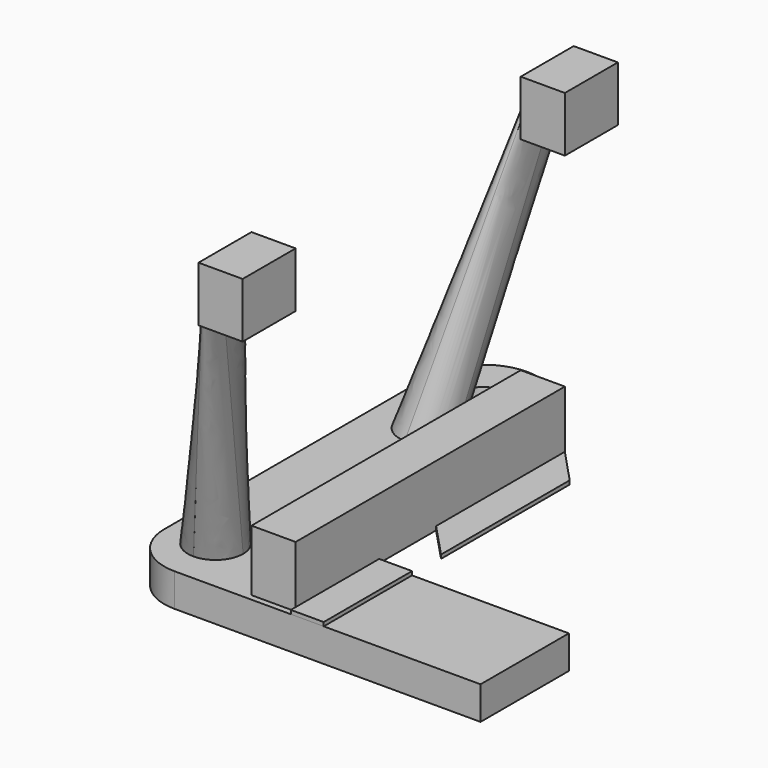
from build123d import *

# Parameters (mm, degrees)
SKETCH_W     = 4
SKETCH_H     = 30.488262
PAD_DEPTH    = 5.542531
SKETCH077_R  = 1.6
PAD048_DEPTH = 3
SKETCH078_W  = 4
SKETCH078_H  = 5
PAD049_DEPTH = 6
SKETCH079_W  = 4
SKETCH079_H  = 5
PAD050_DEPTH = 6
SKETCH081_R  = 2.5
SKETCH080_R  = 2.5
SKETCH083_R  = 2.5
SKETCH082_R  = 2.5
SKETCH089_W  = 2.978887
SKETCH089_H  = 9.99982
PAD052_DEPTH = 0.345274
PAD053_DEPTH = 0.345274


with BuildPart() as part:
    # Sketch (on Face1 of Binder) → Pad (new body)
    with BuildSketch(Plane(origin=(0, 0, 6.942531), x_dir=(1, 0, 0), z_dir=(0, 0, -1))):
        with Locations((56.883999, 20.008358)):
            Rectangle(SKETCH_W, SKETCH_H)
    extrude(amount=PAD_DEPTH)

    # Sketch077 (on Face1 of Binder012) → Pad048 (join)
    with BuildSketch(Plane.XY.offset(1.4)):
        with BuildLine():
            ThreePointArc((53.756622, -1.348999), (48.756621, 3.651001), (43.756622, -1.349001))
            Line((43.756622, -1.349001), (43.756632, -31.224267))
            ThreePointArc((43.756632, -31.224267), (45.095095, -34.455628), (48.32644, -35.794131))
            Line((48.32644, -35.794131), (76.070248, -35.794482))
            Line((76.070248, -35.794482), (76.070248, -25.794482))
            Line((53.756622, -25.794482), (76.070248, -25.794482))
            Line((53.756622, -1.348999), (53.756622, -25.794482))
        make_face()
        with Locations((48.756622, -1.348999)):
            Circle(SKETCH077_R, mode=Mode.SUBTRACT)
    extrude(amount=-PAD048_DEPTH)

    # Sketch078 (on Face1 of Binder013) → Pad049 (join)
    with BuildSketch(Plane.XZ.offset(35.252489)):
        with Locations((56.883999, 27.855274)):
            Rectangle(SKETCH078_W, SKETCH078_H)
    extrude(amount=PAD049_DEPTH)

    # Sketch079 (on Face2 of Binder013) → Pad050 (join)
    with BuildSketch(Plane(origin=(0, -4.764227, 0), x_dir=(-1, 0, 0), z_dir=(0, 1, 0))):
        with Locations((-56.883999, 27.855274)):
            Rectangle(SKETCH079_W, SKETCH079_H)
    extrude(amount=PAD050_DEPTH)

    # Sketch081 (on Face5 of Pad050) → AdditiveLoft section 0
    with BuildSketch(Plane.XY.offset(1.4)):
        with Locations((47.973045, -30.684446)):
            Circle(SKETCH081_R)
    # Sketch080 (on Face17 of Pad050) → AdditiveLoft section 1
    with BuildSketch(Plane(origin=(54.883999, 0, 0), x_dir=(0, -1, 0), z_dir=(-1, 0, 0))):
        with Locations((38.325539, 27.452477)):
            Circle(SKETCH080_R)
    loft()

    # Sketch083 (on Face5 of AdditiveLoft) → AdditiveLoft009 section 0
    with BuildSketch(Plane.XY.offset(1.4)):
        with Locations((48.586216, -7.518005)):
            Circle(SKETCH083_R)
    # Sketch082 (on Face28 of AdditiveLoft) → AdditiveLoft009 section 1
    with BuildSketch(Plane(origin=(54.883999, 0, 0), x_dir=(0, -1, 0), z_dir=(-1, 0, 0))):
        with Locations((1.820387, 27.470873)):
            Circle(SKETCH082_R)
    loft()

    # Sketch089 (on Face1 of Binder019) → Pad052 (join)
    with BuildSketch(Plane(origin=(0, 0, 1.745274), x_dir=(1, 0, 0), z_dir=(0, 0, -1))):
        with Locations((60.373442, 30.794392)):
            Rectangle(SKETCH089_W, SKETCH089_H)
    extrude(amount=PAD052_DEPTH)

    # Sketch090 (on Face1 of Binder019) → Pad053 (join)
    with BuildSketch(Plane(origin=(0, 0, 1.745274), x_dir=(1, 0, 0), z_dir=(0, 0, -1))):
        Polygon((58.883999, 4.764227), (58.883999, 19.349763), (61.881626, 22.532681), (61.881626, 7.966667), align=None)
    extrude(amount=PAD053_DEPTH)


solid = part.part
